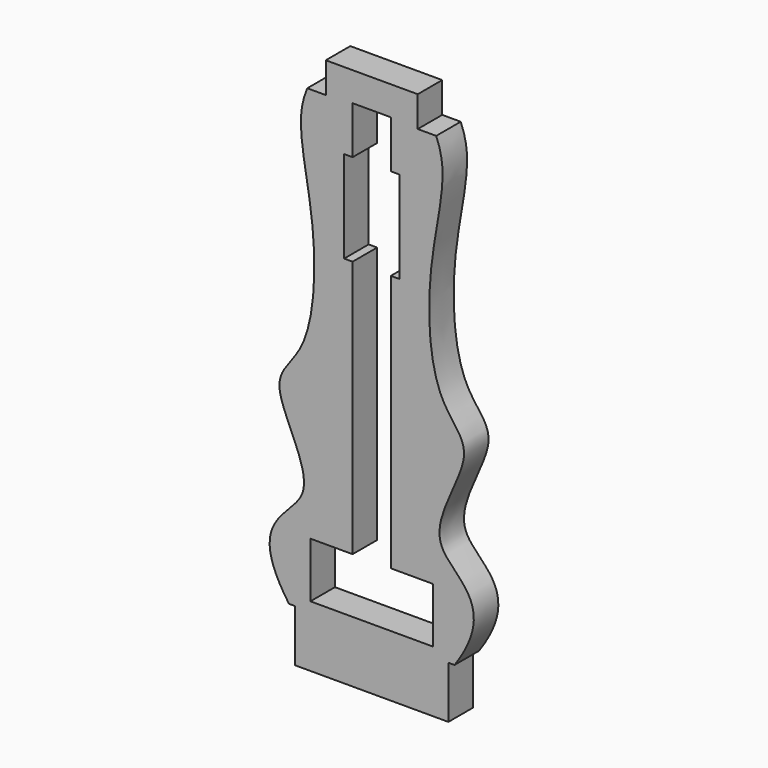
from build123d import *

# Parameters (mm, degrees)
F0_W     = 20
F0_H     = 18
F0_W_2   = 18
F0_H_2   = 30
F1_DEPTH = 10
F3_DEPTH = 10
F4_W     = 12.4899959968
F4_H     = 129.5212038755
F5_DEPTH = 25
F6_W     = 10
F6_H     = 18
F7_DEPTH = 25


with BuildPart() as f1:
    # F0 (on Front) → F1 (new body)
    with BuildSketch(Plane.XZ):
        Polygon((-15, 0), (-25, 0), (-25, -17), (25, -17), (25, 0), (15, 0), (15, 160), (-15, 160), align=None)
        with Locations((0, 12)):
            Rectangle(F0_W, F0_H, mode=Mode.SUBTRACT)
        with Locations((0, 120)):
            Rectangle(F0_W_2, F0_H_2, mode=Mode.SUBTRACT)
    extrude(amount=F1_DEPTH)

    # F2 (on face) → F3 (join)
    with BuildSketch(Plane.XZ.offset(10)):
        with BuildLine():
            Line((-15, 150), (-21.0292486188, 150))
            add(Edge.make_bspline(
                [(-21.0292486188, 150), (-21.8759584302, 148.001282676), (-24.8980712464, 137.9744187621), (-17.2944008466, 112.5484863306), (-19.1315799921, 73.8118713362), (-36.5433909892, 62.6372447051), (-9.6453426201, 27.9646895652), (-42.2846944801, 21.8256817725), (-27, 0)],
                knots=[0.0884560158, 0.0884560158, 0.0884560158, 0.0884560158, 0.1370648704, 0.3185486056, 0.5145047689, 0.6413495139, 0.8130466565, 1, 1, 1, 1], degree=3))
            Line((-27, 0), (-15, 0))
            Line((-15, 0), (-15, 150))
        make_face()
        with BuildLine():
            Line((21.0292486188, 150), (15, 150))
            Line((15, 150), (15, 0))
            Line((15, 0), (27, 0))
            add(Edge.make_bspline(
                [(21.0292486188, 150), (21.8759584302, 148.001282676), (24.8980712464, 137.9744187621), (17.2944008466, 112.5484863306), (19.1315799921, 73.8118713362), (36.5433909892, 62.6372447051), (9.6453426201, 27.9646895652), (42.2846944801, 21.8256817725), (27, 0)],
                knots=[0.0884560158, 0.0884560158, 0.0884560158, 0.0884560158, 0.1370648704, 0.3185486056, 0.5145047689, 0.6413495139, 0.8130466565, 1, 1, 1, 1], degree=3))
        make_face()
    extrude(amount=-F3_DEPTH)

    # F4 (on face) → F5 (cut)
    with BuildSketch(Plane.XZ.offset(10)):
        with Locations((0, 85.7606019378)):
            Rectangle(F4_W, F4_H)
    extrude(amount=-F5_DEPTH, mode=Mode.SUBTRACT)

    # F6 (on face) → F7 (cut)
    with BuildSketch(Plane.XZ.offset(10)):
        with Locations((-15, 12)):
            Rectangle(F6_W, F6_H)
        with Locations((15, 12)):
            Rectangle(F6_W, F6_H)
    extrude(amount=-F7_DEPTH, mode=Mode.SUBTRACT)


solid = f1.part
